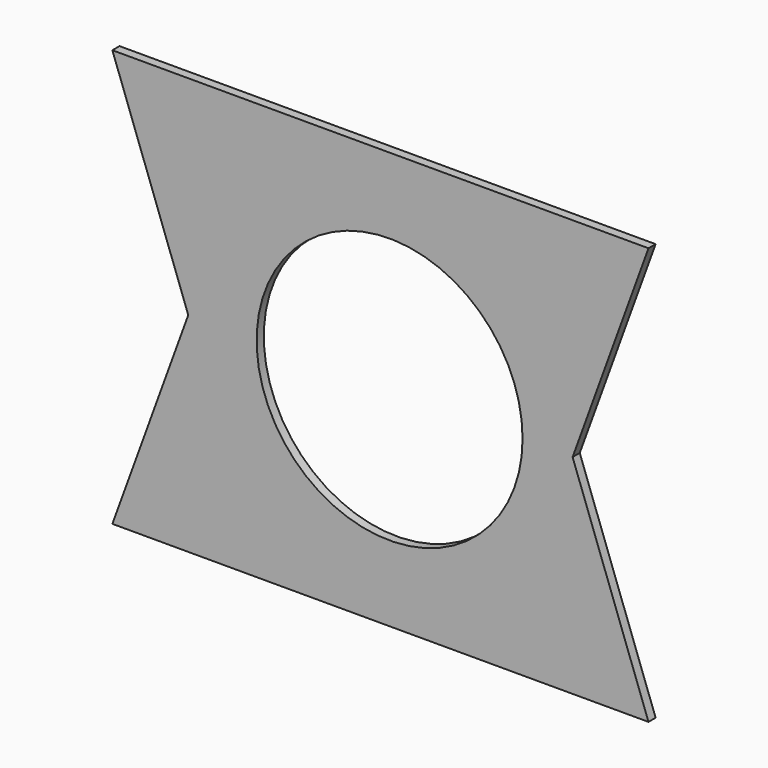
from build123d import *

# Parameters (mm, degrees)
F1_DEPTH = 3
F2_R     = 44.638482
F3_DEPTH = 135


with BuildPart() as f1:
    # F0 (on Front) → F1 (new body)
    with BuildSketch(Plane.XZ):
        Polygon((86.916415, 36.896855), (-93.083585, 36.896855), (-67.605668, -33.103145), (-93.083585, -103.103145), (86.916415, -103.103145), (61.438499, -33.103145), align=None)
    extrude(amount=F1_DEPTH)

    # F2 (on face) → F3 (cut)
    with BuildSketch(Plane.XZ.offset(3)):
        with Locations((0, -33.103145)):
            Circle(F2_R)
    extrude(amount=-F3_DEPTH, mode=Mode.SUBTRACT)


solid = f1.part
